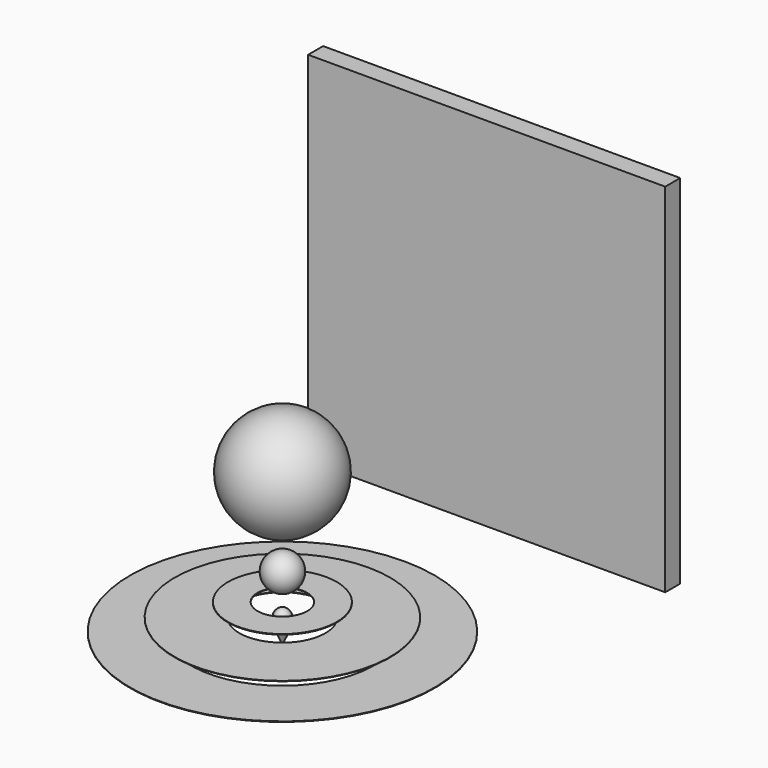
from build123d import *

# Parameters (mm, degrees)
F3_START = -136
F0_W     = 400
F0_H     = 400
F3_DEPTH = 21
F8_W     = 33.0270953653
F8_H     = 0.6231538645
F8_W_2   = 72.3895747283
F8_H_2   = 0.4799921252
F8_W_3   = 67.564117612
F8_H_3   = 0.5875171763


with BuildPart() as f2:
    # F1 (on Right) → F2 (revolve)
    with BuildSketch(Plane.YZ):
        with BuildLine():
            ThreePointArc((-150, 110), (-90, 170), (-150, 230))
            Line((-150, 230), (-150, 110))
        make_face()
    revolve(axis=Axis((0, -150, 170), (0, 0, -1)))


with BuildPart() as f3:
    # F0 (on Front) → F3 (new body)
    with BuildSketch(Plane.XZ.offset(F3_START)):
        with Locations((0, 200)):
            Rectangle(F0_W, F0_H)
    extrude(amount=-F3_DEPTH)


with BuildPart() as f5:
    # F4 (on Right) → F5 (revolve)
    with BuildSketch(Plane.YZ):
        with BuildLine():
            Line((-150, 35.9301567078), (-150, 0))
            add(Edge.make_bspline(
                [(-150, 0), (-146.0154275688, 8.3174599859), (-142.5858517401, 15.3278100745), (-139.3562522281, 31.009315122), (-147.0014429277, 35.9723562162), (-150, 35.9301567078)],
                knots=[0, 0, 0, 0, 0.3902849204, 0.7186010027, 1, 1, 1, 1], degree=3))
        make_face()
    revolve(axis=Axis((0, -150, 17.9650783539), (0, 0, -1)))


with BuildPart() as f7:
    # F6 (on Right) → F7 (revolve)
    with BuildSketch(Plane.YZ):
        with BuildLine():
            ThreePointArc((-150, 51.8931097289), (-130, 71.8931097289), (-150, 91.8931097289))
            Line((-150, 91.8931097289), (-150, 51.8931097289))
        make_face()
    revolve(axis=Axis((0, -150, 71.8931097289), (0, 0, -1)))


with BuildPart() as f9:
    # F8 (on Right) → F9 (revolve)
    with BuildSketch(Plane.YZ):
        with Locations((-105.6787731469, 41.418339388)):
            Rectangle(F8_W, F8_H)
    revolve(axis=Axis((0, -150, 23.9761587481), (0, 0, -1)))


with BuildPart() as f9b:
    # F8 (on Right) → F9, piece 2 (revolve)
    with BuildSketch(Plane.YZ):
        with Locations((-65.6412060954, 26.391093639)):
            Rectangle(F8_W_2, F8_H_2)
    revolve(axis=Axis((0, -150, 23.9761587481), (0, 0, -1)))


with BuildPart() as f9c:
    # F8 (on Right) → F9, piece 3 (revolve)
    with BuildSketch(Plane.YZ):
        with Locations((-13.3936369571, 12.3445154659)):
            Rectangle(F8_W_3, F8_H_3)
    revolve(axis=Axis((0, -150, 23.9761587481), (0, 0, -1)))


with BuildPart() as f10:
    # F8 (on Right) → F10 (revolve)
    with BuildSketch(Plane.YZ):
        with Locations((-105.6787731469, 41.418339388)):
            Rectangle(F8_W, F8_H)
    revolve(axis=Axis((0, -150, 17.9650783539), (0, 0, -1)))


with BuildPart() as f10b:
    # F8 (on Right) → F10, piece 2 (revolve)
    with BuildSketch(Plane.YZ):
        with Locations((-65.6412060954, 26.391093639)):
            Rectangle(F8_W_2, F8_H_2)
    revolve(axis=Axis((0, -150, 17.9650783539), (0, 0, -1)))


with BuildPart() as f10c:
    # F8 (on Right) → F10, piece 3 (revolve)
    with BuildSketch(Plane.YZ):
        with Locations((-13.3936369571, 12.3445154659)):
            Rectangle(F8_W_3, F8_H_3)
    revolve(axis=Axis((0, -150, 17.9650783539), (0, 0, -1)))


solid = Compound([f2.part, f3.part, f5.part, f7.part, f9.part, f9b.part, f9c.part, f10.part, f10b.part, f10c.part])
